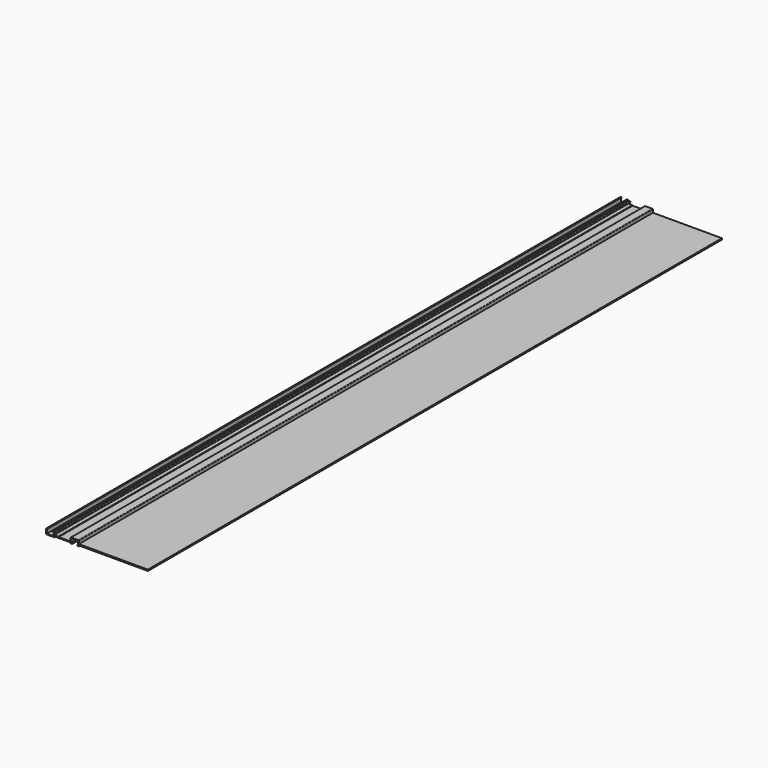
from build123d import *

# Parameters (mm, degrees)
F1_DEPTH = 1400


with BuildPart() as f1:
    # F0 (on Front) → F1 (new body)
    with BuildSketch(Plane.XZ):
        with BuildLine():
            Line((-15, 0), (0, 0))
            Line((0, 0), (0, 1.5))
            Line((0, 1.5), (32, 1.5))
            Line((32, 1.5), (32, 0))
            Line((32, 0), (35, 0))
            Line((35, 0), (35, 1.5))
            Line((35, 1.5), (33.5, 1.5))
            Line((33.5, 1.5), (33.5, 9))
            Line((33.5, 9), (46.5, 9))
            Line((46.5, 9), (46.5, 1.5))
            Line((46.5, 1.5), (45, 1.5))
            Line((45, 1.5), (45, 0))
            Line((45, 0), (48, 0))
            Line((48, 0), (48, 1.5))
            Line((48, 1.5), (182.6, 1.5))
            Line((182.6, 1.5), (182.6, 4))
            Line((182.6, 4), (48, 4))
            Line((48, 4), (48, 9.5))
            ThreePointArc((48, 9.5), (47.707107, 10.207107), (47, 10.5))
            Line((47, 10.5), (33, 10.5))
            ThreePointArc((33, 10.5), (32.292893, 10.207107), (32, 9.5))
            Line((32, 9.5), (32, 4))
            Line((32, 4), (29, 4))
            Line((29, 4), (28.566987, 3.25))
            Line((28.566987, 3.25), (8.433013, 3.25))
            Line((8.433013, 3.25), (8, 4))
            Line((8, 4), (0, 4))
            Line((0, 4), (0, 7))
            Line((0, 7), (3, 7))
            ThreePointArc((3, 7), (3.707107, 7.292893), (4, 8))
            Line((4, 8), (4, 8.5))
            ThreePointArc((4, 8.5), (3.707107, 9.207107), (3, 9.5))
            Line((3, 9.5), (0, 9.5))
            ThreePointArc((0, 9.5), (-0.292893, 10.207107), (-1, 10.5))
            Line((-1, 10.5), (-3, 10.5))
            Line((-3, 10.5), (-3, 9))
            Line((-3, 9), (-1.5, 9))
            Line((-1.5, 9), (-1.5, 1.5))
            Line((-1.5, 1.5), (-14.5, 1.5))
            Line((-14.5, 1.5), (-14.5, 9))
            Line((-14.5, 9), (-13, 9))
            Line((-13, 9), (-13, 10.5))
            Line((-13, 10.5), (-15, 10.5))
            ThreePointArc((-15, 10.5), (-15.707107, 10.207107), (-16, 9.5))
            Line((-16, 9.5), (-16, 1))
            ThreePointArc((-16, 1), (-15.707107, 0.292893), (-15, 0))
        make_face()
    extrude(amount=F1_DEPTH)


solid = f1.part
